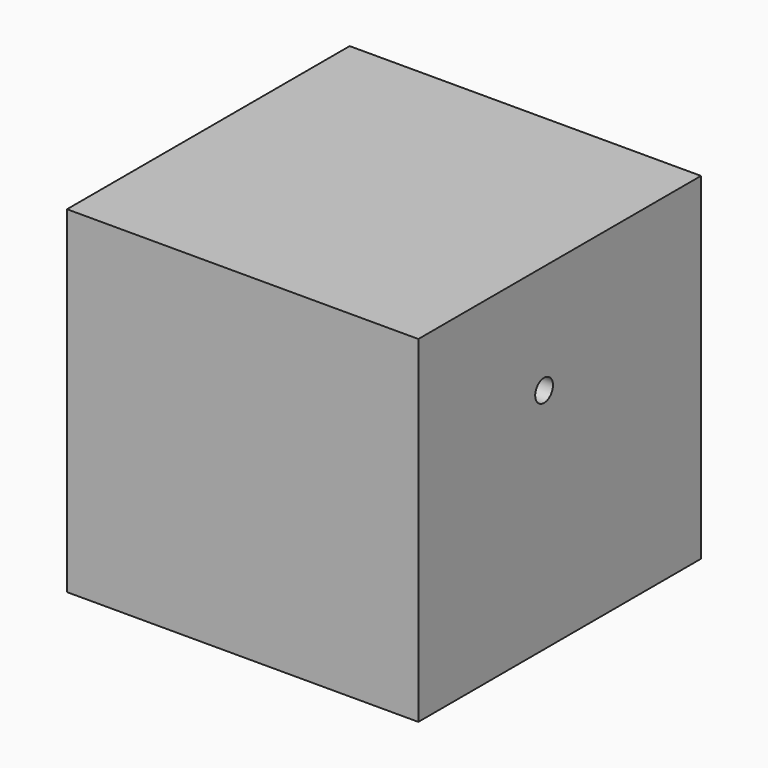
from build123d import *

# Parameters (mm, degrees)
F0_W     = 101.06185
F0_H     = 96.428375
F1_DEPTH = 100.503298
F4_D     = 6.35


with BuildPart() as f1:
    # F0 (on Right) → F1 (new body)
    with BuildSketch(Plane.YZ):
        with Locations((5.575724, 18.390657)):
            Rectangle(F0_W, F0_H)
    extrude(amount=F1_DEPTH)

    # F4 (through all)
    with Locations(Plane.YZ.offset(100.503298)):
        with Locations((0, 35.401903)):
            Hole(F4_D / 2)


solid = f1.part
